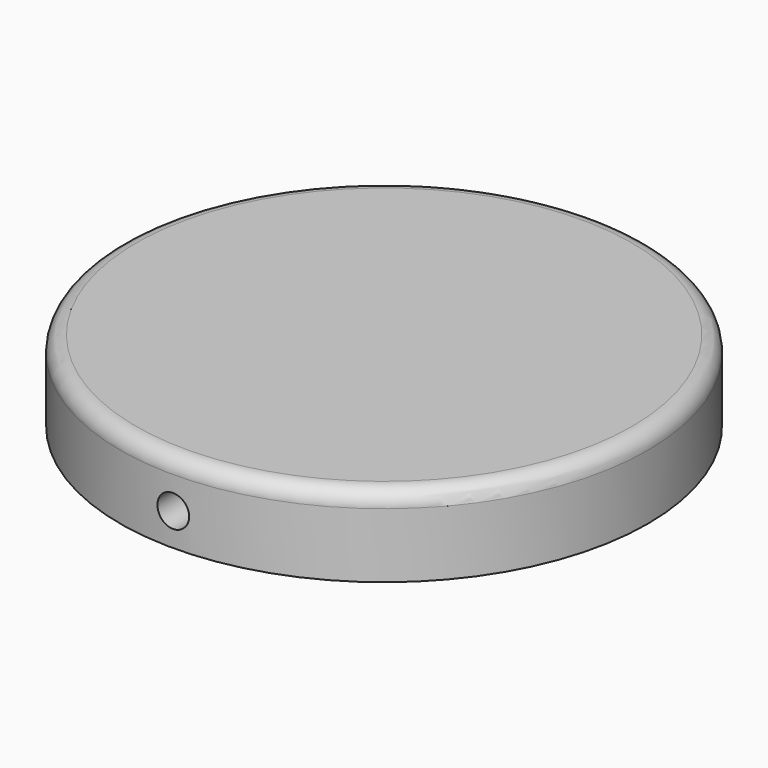
from build123d import *

# Parameters (mm, degrees)
F0_R     = 166.5
F1_DEPTH = 50.8
F2_R     = 10
F4_R     = 10
F5_DEPTH = 97.282


with BuildPart() as f1:
    # F0 (on Top) → F1 (new body)
    with BuildSketch(Plane.XY):
        Circle(F0_R)
    extrude(amount=F1_DEPTH)

    # F2
    f2_edges = [f1.edges().sort_by_distance(p)[0] for p in [
        (-166.5, 0, 50.8),
    ]]
    fillet(f2_edges, radius=F2_R)

    # F4 (on offset) → F5 (cut)
    with BuildSketch(Plane.XZ.offset(167.132)):
        with Locations((0, 20.608293)):
            Circle(F4_R)
    extrude(amount=-F5_DEPTH, mode=Mode.SUBTRACT)


solid = f1.part
